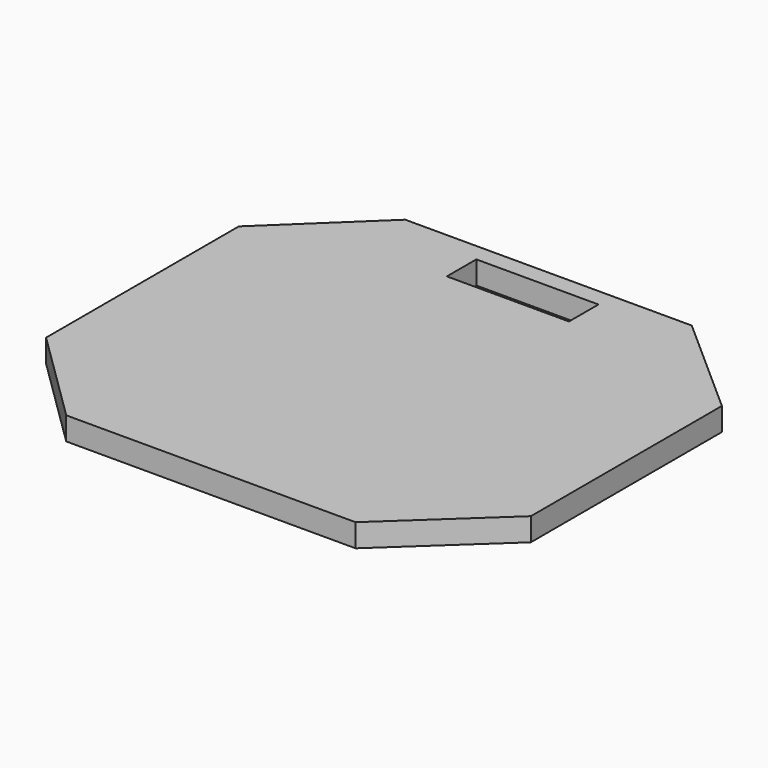
from build123d import *

# Parameters (mm, degrees)
F0_W     = 400
F0_H     = 350
F1_DEPTH = 19
F3_DEPTH = 19.001
F5_DEPTH = 19.001


with BuildPart() as f1:
    # F0 (on Top) → F1 (new body)
    with BuildSketch(Plane.XY):
        Rectangle(F0_W, F0_H)
    extrude(amount=F1_DEPTH)

    # F2 (on face) → F3 (cut, through all)
    with BuildSketch(Plane.XY.offset(19)):
        Polygon((-200, 175), (-200, 100.611582), (-122.030288, 175), align=None)
        Polygon((200, 175), (114.702843, 175), (200, 99.48428), align=None)
        Polygon((200, -97.793318), (116.957434, -175), (200, -175), align=None)
        Polygon((-122.030288, -175), (-200, -98.356977), (-200, -175), align=None)
    extrude(amount=-F3_DEPTH, mode=Mode.SUBTRACT)

    # F4 (on face) → F5 (cut, through all)
    with BuildSketch(Plane.XY.offset(19)):
        Polygon((-51.574003, 160.358503), (-51.574003, 129.921392), (49.319401, 129.921392), (49.319401, 160.358503), (39.737348, 160.358503), align=None)
    extrude(amount=-F5_DEPTH, mode=Mode.SUBTRACT)


solid = f1.part
